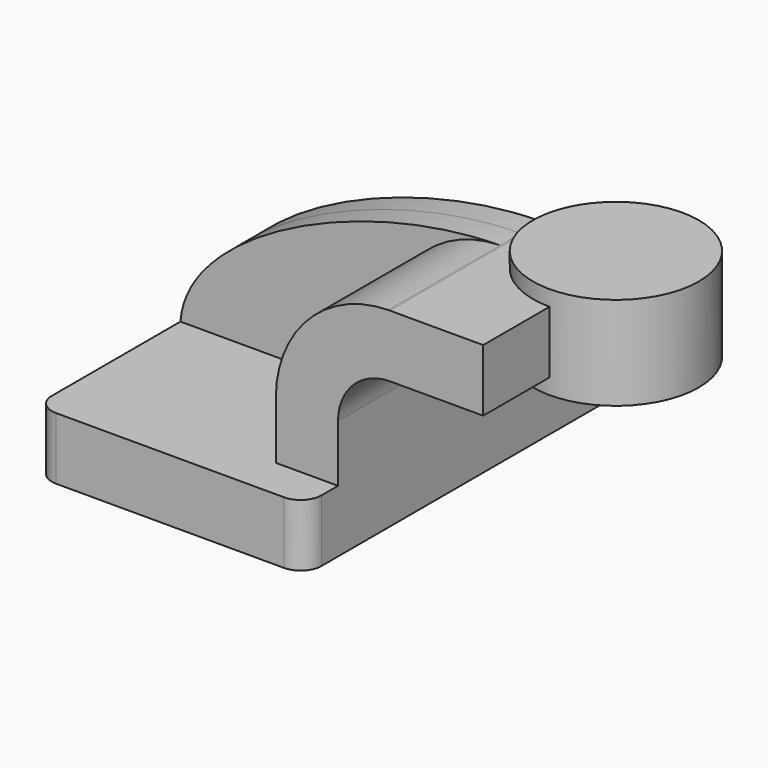
from build123d import *

# Parameters (mm, degrees)
F1_DEPTH = 63.5
F0_W     = 25.4
F0_H     = 19.05
F2_DEPTH = 50.8
F3_DEPTH = 7.9375
F5_R     = 6.35
F6_R     = 6.35


with BuildPart() as f1:
    # F0 (on Front) → F1 (new body, symmetric)
    with BuildSketch(Plane.XZ):
        Polygon((-41.275, 9.525), (-41.275, -9.525), (41.275, -9.525), (41.275, 9.525), (22.225, 9.525), align=None)
    extrude(amount=F1_DEPTH, both=True)

    # F0 (on Front) → F2 (join)
    with BuildSketch(Plane.XZ):
        with Locations((73.025, 52.4002)):
            Rectangle(F0_W, F0_H)
        with BuildLine():
            Line((22.225, 9.525), (41.275, 9.525))
            Line((41.275, 9.525), (41.275, 27.0002))
            ThreePointArc((41.275, 27.0002), (45.9246798487, 38.2255201513), (57.15, 42.8752))
            Line((57.15, 42.8752), (60.325, 42.8752))
            Line((60.325, 42.8752), (60.325, 61.9252))
            Line((60.325, 61.9252), (57.15, 61.9252))
            add(Edge.make_bspline(
                [(56.6563688667, 61.9217113262), (56.8210697668, 61.9232432232), (56.985614657, 61.924406559), (57.15, 61.9252)],
                knots=[111.0767656068, 111.0767656068, 111.0767656068, 111.0767656068, 111.5045361635, 111.5045361635, 111.5045361635, 111.5045361635], degree=3))
            ThreePointArc((56.6563688667, 61.9217113262), (32.2803830716, 51.5207582896), (22.225, 27.0002))
            Line((22.225, 27.0002), (22.225, 9.525))
        make_face()
    extrude(amount=F2_DEPTH)

    # F0 (on Front) → F3 (join, symmetric)
    with BuildSketch(Plane.XZ):
        with BuildLine():
            add(Edge.make_bspline(
                [(-41.275, 9.525), (-39.3966058036, 36.2756986169), (13.8894158841, 61.52393227), (56.6563688667, 61.9217113262)],
                knots=[0, 0, 0, 0, 111.0767656068, 111.0767656068, 111.0767656068, 111.0767656068], degree=3))
            Line((-41.275, 9.525), (22.225, 9.525))
            Line((22.225, 9.525), (22.225, 27.0002))
            ThreePointArc((22.225, 27.0002), (32.2803830716, 51.5207582896), (56.6563688667, 61.9217113262))
        make_face()
    extrude(amount=F3_DEPTH, both=True)

    # F0 (on Front) → F4 (revolve)
    with BuildSketch(Plane.XZ):
        Polygon((85.725, 66.675), (85.725, 61.9252), (85.725, 42.8752), (85.725, 38.1), (111.125, 38.1), (111.125, 66.675), align=None)
    revolve(axis=Axis((85.725, 0, 54.7751), (0, 0, 1)))

    # F5
    f5_edges = [f1.edges().sort_by_distance(p)[0] for p in [
        (-41.275, -63.5, 0),
        (41.275, -63.5, 0),
        (41.275, 63.5, 0),
    ]]
    fillet(f5_edges, radius=F5_R)

    # F6
    f6_edges = [f1.edges().sort_by_distance(p)[0] for p in [
        (-41.275, 63.5, 0),
    ]]
    fillet(f6_edges, radius=F6_R)


solid = f1.part
